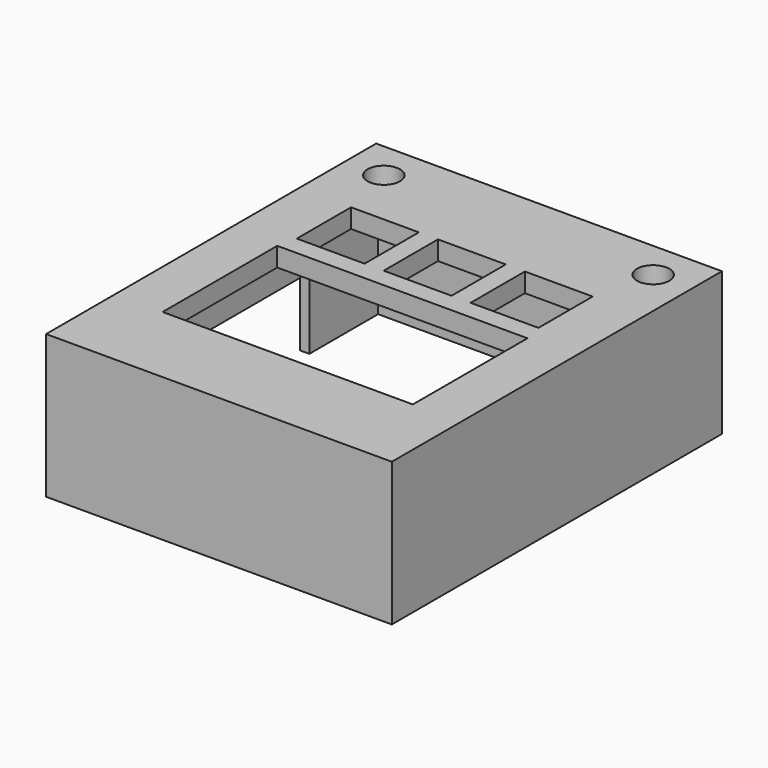
from build123d import *

# Parameters (mm, degrees)
SKETCH_W        = 34.2
SKETCH_H        = 41.2
SKETCH_W_2      = 26.2
SKETCH_H_2      = 15
PAD_DEPTH       = 2
SKETCH001_R     = 1.7
POCKET_DEPTH    = 5
SKETCH002_W     = 7.1
SKETCH002_H     = 7.1
POCKET001_DEPTH = 5
SKETCH005_W     = 36.2
SKETCH005_H     = 43.2
SKETCH005_W_2   = 34.2
SKETCH005_H_2   = 41.2
PAD002_DEPTH    = 15
POCKET002_DEPTH = 5


with BuildPart() as part:
    # Sketch → Pad (new body)
    with BuildSketch(Plane.XY):
        with Locations((17.1, 20.6)):
            Rectangle(SKETCH_W, SKETCH_H)
        with Locations((17.1, 15.5)):
            Rectangle(SKETCH_W_2, SKETCH_H_2, mode=Mode.SUBTRACT)
    extrude(amount=PAD_DEPTH)

    # Sketch001 → Pocket (cut)
    with BuildSketch(Plane.XY.offset(2)):
        with Locations((3, 38.2)):
            Circle(SKETCH001_R)
        with Locations((31.2, 38.2)):
            Circle(SKETCH001_R)
    extrude(amount=-POCKET_DEPTH, mode=Mode.SUBTRACT)

    # Sketch002 → Pocket001 (cut)
    with BuildSketch(Plane.XY.offset(2)):
        with Locations((8, 28.55)):
            Rectangle(SKETCH002_W, SKETCH002_H)
        with Locations((17.1, 28.55)):
            Rectangle(SKETCH002_W, SKETCH002_H)
        with Locations((26.2, 28.55)):
            Rectangle(SKETCH002_W, SKETCH002_H)
    extrude(amount=-POCKET001_DEPTH, mode=Mode.SUBTRACT)

    # Sketch005 → Pad002 (new body)
    with BuildSketch(Plane.XY.offset(2)):
        with Locations((17.1, 20.6)):
            Rectangle(SKETCH005_W, SKETCH005_H)
        with Locations((17.1, 20.6)):
            Rectangle(SKETCH005_W_2, SKETCH005_H_2, mode=Mode.SUBTRACT)
    extrude(amount=-PAD002_DEPTH)

    # Sketch006 → Pocket002 (cut)
    with BuildSketch(Plane(origin=(-1, 0, 0), x_dir=(0, -1, 0), z_dir=(-1, 0, 0))):
        Polygon((-5.2, -13), (-32.2, -13), (-32.2, -5.500487), (-10.562311, -5.500487), (-5.2, -10), align=None)
    extrude(amount=-POCKET002_DEPTH, mode=Mode.SUBTRACT)


solid = part.part
